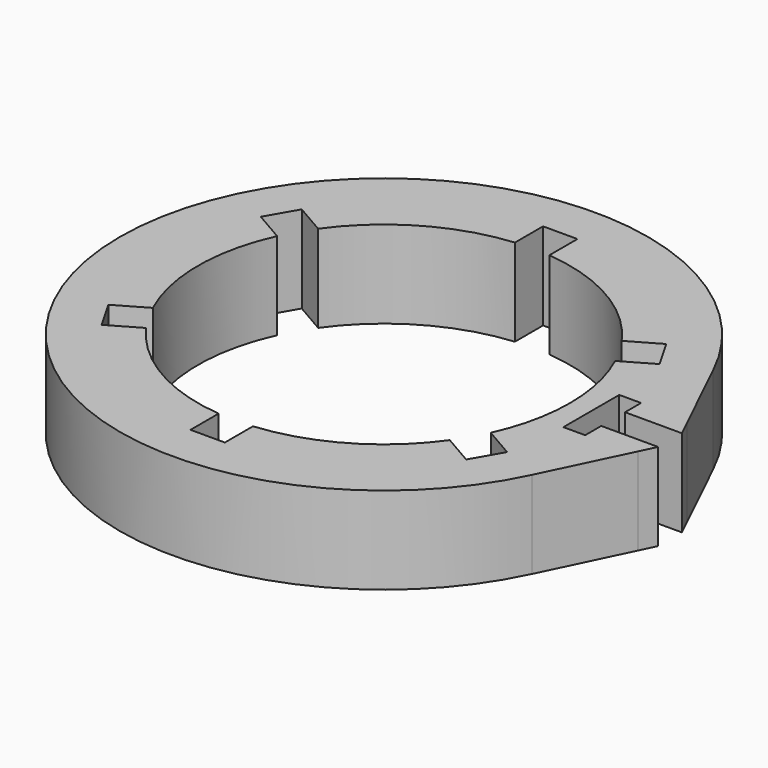
from build123d import *

# Parameters (mm, degrees)
F0_R     = 76.841269309
F1_DEPTH = 25.4
F3_DEPTH = 2540
F4_DEPTH = 25.4


with BuildPart() as f1:
    # F0 (on Top) → F1 (new body)
    with BuildSketch(Plane.XY):
        Circle(F0_R)
        with BuildLine():
            ThreePointArc((49.1623187614, 22.610375279), (52.8604702506, 11.5729573203), (54.1125, 0))
            ThreePointArc((54.1125, 0), (52.8604702506, -11.5729573203), (49.1623187614, -22.610375279))
            Line((49.1623187614, -22.610375279), (58.0230537001, -27.7261229811))
            Line((58.0230537001, -27.7261229811), (53.0230537001, -36.3863770189))
            Line((53.0230537001, -36.3863770189), (44.1623187614, -31.2706293168))
            ThreePointArc((44.1623187614, -31.2706293168), (27.05625, -46.8627996623), (5, -53.8810045958))
            Line((5, -53.8810045958), (5, -64.1125))
            Line((5, -64.1125), (-5, -64.1125))
            Line((-5, -64.1125), (-5, -53.8810045958))
            ThreePointArc((-5, -53.8810045958), (-27.05625, -46.8627996623), (-44.1623187614, -31.2706293168))
            Line((-44.1623187614, -31.2706293168), (-53.0230537001, -36.3863770189))
            Line((-53.0230537001, -36.3863770189), (-58.0230537001, -27.7261229811))
            Line((-58.0230537001, -27.7261229811), (-49.1623187614, -22.610375279))
            ThreePointArc((-49.1623187614, -22.610375279), (-54.1125, 0), (-49.1623187614, 22.610375279))
            Line((-49.1623187614, 22.610375279), (-58.0230537001, 27.7261229811))
            Line((-58.0230537001, 27.7261229811), (-53.0230537001, 36.3863770189))
            Line((-53.0230537001, 36.3863770189), (-44.1623187614, 31.2706293168))
            ThreePointArc((-44.1623187614, 31.2706293168), (-27.05625, 46.8627996623), (-5, 53.8810045958))
            Line((-5, 53.8810045958), (-5, 64.1125))
            Line((-5, 64.1125), (5, 64.1125))
            Line((5, 64.1125), (5, 53.8810045958))
            ThreePointArc((5, 53.8810045958), (27.05625, 46.8627996623), (44.1623187614, 31.2706293168))
            Line((44.1623187614, 31.2706293168), (53.0230537001, 36.3863770189))
            Line((53.0230537001, 36.3863770189), (58.0230537001, 27.7261229811))
            Line((58.0230537001, 27.7261229811), (49.1623187614, 22.610375279))
        make_face(mode=Mode.SUBTRACT)
    extrude(amount=F1_DEPTH)

    # F2 (on face) → F3 (cut)
    with BuildSketch(Plane.XY.offset(25.4)):
        with BuildLine():
            Line((60.331269309, 0), (76.841269309, 0))
            ThreePointArc((76.841269309, 0), (76.8109087462, 2.1598533743), (76.7198510493, 4.318))
            Line((76.7198510493, 4.318), (71.6383990579, 4.318))
            Line((71.6383990579, 4.318), (66.681269309, 4.318))
            Line((66.681269309, 4.318), (66.681269309, 10.16))
            Line((66.681269309, 10.16), (60.331269309, 10.16))
            Line((60.331269309, 10.16), (60.331269309, 0))
        make_face()
        with BuildLine():
            Line((66.681269309, -4.318), (71.6383990579, -4.318))
            Line((71.6383990579, -4.318), (76.7198510493, -4.318))
            ThreePointArc((76.7198510493, -4.318), (76.8109087462, -2.1598533743), (76.841269309, 0))
            Line((76.841269309, 0), (60.331269309, 0))
            Line((60.331269309, 0), (60.331269309, -10.16))
            Line((60.331269309, -10.16), (66.681269309, -10.16))
            Line((66.681269309, -10.16), (66.681269309, -4.318))
        make_face()
    extrude(amount=-F3_DEPTH, mode=Mode.SUBTRACT)

    # F2 (on face) → F4 (join)
    with BuildSketch(Plane.XY.offset(25.4)):
        with BuildLine():
            Line((81.0480539402, 8.8309641961), (69.4320089527, 32.9207655108))
            ThreePointArc((69.4320089527, 32.9207655108), (72.3316680057, 25.93666271), (74.5307966821, 18.7013639864))
            add(Edge.make_bspline(
                [(74.5307966821, 18.7013639864), (75.9347240562, 15.3777124362), (77.4050082281, 12.5783342613), (78.9966583252, 10.7205696404)],
                knots=[0.3571653837, 0.3571653837, 0.3571653837, 0.3571653837, 0.6407462723, 0.6407462723, 0.6407462723, 0.6407462723], degree=3))
            add(Edge.make_bspline(
                [(78.9966583252, 10.7205696404), (79.6616242514, 9.944425327), (80.3477738062, 9.3326335024), (81.0480539402, 8.8309641961)],
                knots=[0.6407462723, 0.6407462723, 0.6407462723, 0.6407462723, 0.759221827, 0.759221827, 0.759221827, 0.759221827], degree=3))
        make_face()
        with BuildLine():
            add(Edge.make_bspline(
                [(74.5307966821, 18.7013639864), (75.9347240562, 15.3777124362), (77.4050082281, 12.5783342613), (78.9966583252, 10.7205696404)],
                knots=[0.3571653837, 0.3571653837, 0.3571653837, 0.3571653837, 0.6407462723, 0.6407462723, 0.6407462723, 0.6407462723], degree=3))
            ThreePointArc((74.5307966821, 18.7013639864), (75.4668021106, 14.4686712665), (76.1626284874, 10.1899308588))
            Line((76.1626284874, 10.1899308588), (78.9966583252, 10.7205696404))
        make_face()
        with BuildLine():
            ThreePointArc((76.1626284874, 10.1899308588), (76.4976014678, 7.2593139274), (76.7198510493, 4.318))
            Line((76.7198510493, 4.318), (76.841269309, 4.318))
            Line((76.841269309, 4.318), (83.2241945586, 4.318))
            Line((83.2241945586, 4.318), (78.9966583252, 10.7205696404))
            Line((78.9966583252, 10.7205696404), (76.1626284874, 10.1899308588))
        make_face()
        with BuildLine():
            Line((83.2241945586, 4.318), (81.0480539402, 8.8309641961))
            add(Edge.make_bspline(
                [(78.9966583252, 10.7205696404), (79.6616242514, 9.944425327), (80.3477738062, 9.3326335024), (81.0480539402, 8.8309641961)],
                knots=[0.6407462723, 0.6407462723, 0.6407462723, 0.6407462723, 0.759221827, 0.759221827, 0.759221827, 0.759221827], degree=3))
            Line((78.9966583252, 10.7205696404), (83.2241945586, 4.318))
        make_face()
        with BuildLine():
            ThreePointArc((76.7198510493, -4.318), (76.4976014678, -7.2593139274), (76.1626284874, -10.1899308588))
            Line((76.1626284874, -10.1899308588), (78.9966583252, -10.7205696404))
            add(Edge.make_bspline(
                [(78.9966583252, -10.7205696404), (79.6616242514, -9.944425327), (80.3477738062, -9.3326335024), (81.0480539402, -8.8309641961)],
                knots=[0.6407462723, 0.6407462723, 0.6407462723, 0.6407462723, 0.759221827, 0.759221827, 0.759221827, 0.759221827], degree=3))
            Line((81.0480539402, -8.8309641961), (83.2241945586, -4.318))
            Line((83.2241945586, -4.318), (76.841269309, -4.318))
            Line((76.841269309, -4.318), (76.7198510493, -4.318))
        make_face()
        with BuildLine():
            add(Edge.make_bspline(
                [(78.9966583252, -10.7205696404), (79.6616242514, -9.944425327), (80.3477738062, -9.3326335024), (81.0480539402, -8.8309641961)],
                knots=[0.6407462723, 0.6407462723, 0.6407462723, 0.6407462723, 0.759221827, 0.759221827, 0.759221827, 0.759221827], degree=3))
            add(Edge.make_bspline(
                [(74.5307966821, -18.7013639864), (75.9347240562, -15.3777124362), (77.4050082281, -12.5783342613), (78.9966583252, -10.7205696404)],
                knots=[0.3571653837, 0.3571653837, 0.3571653837, 0.3571653837, 0.6407462723, 0.6407462723, 0.6407462723, 0.6407462723], degree=3))
            ThreePointArc((74.5307966821, -18.7013639864), (72.3316680057, -25.93666271), (69.4320089527, -32.9207655108))
            Line((69.4320089527, -32.9207655108), (81.0480539402, -8.8309641961))
        make_face()
        with BuildLine():
            Line((78.9966583252, -10.7205696404), (76.1626284874, -10.1899308588))
            ThreePointArc((76.1626284874, -10.1899308588), (75.4668021106, -14.4686712665), (74.5307966821, -18.7013639864))
            add(Edge.make_bspline(
                [(74.5307966821, -18.7013639864), (75.9347240562, -15.3777124362), (77.4050082281, -12.5783342613), (78.9966583252, -10.7205696404)],
                knots=[0.3571653837, 0.3571653837, 0.3571653837, 0.3571653837, 0.6407462723, 0.6407462723, 0.6407462723, 0.6407462723], degree=3))
        make_face()
    extrude(amount=-F4_DEPTH)


solid = f1.part
